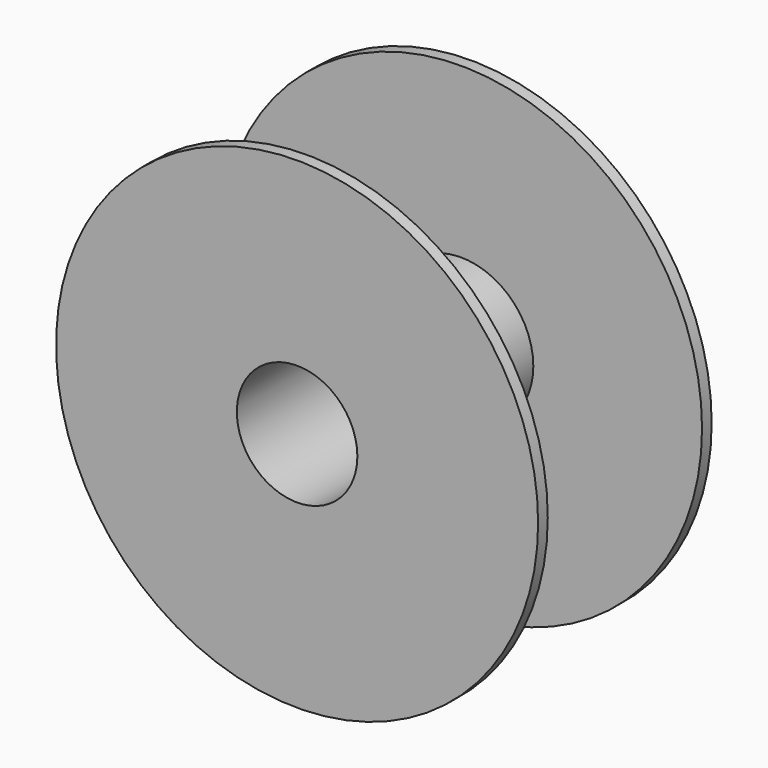
from build123d import *

# Parameters (mm, degrees)
F0_R     = 100
F0_R_2   = 25
F1_DEPTH = 45
F2_T     = -5


with BuildPart() as f1:
    # F0 (on Front) → F1 (new body, symmetric)
    with BuildSketch(Plane.XZ):
        Circle(F0_R)
        Circle(F0_R_2, mode=Mode.SUBTRACT)
    extrude(amount=F1_DEPTH, both=True)

    # F2
    f2_openings = [f1.faces().sort_by_distance(p)[0] for p in [
        (-100, 0, 0),
    ]]
    offset(amount=F2_T, openings=f2_openings)


solid = f1.part
